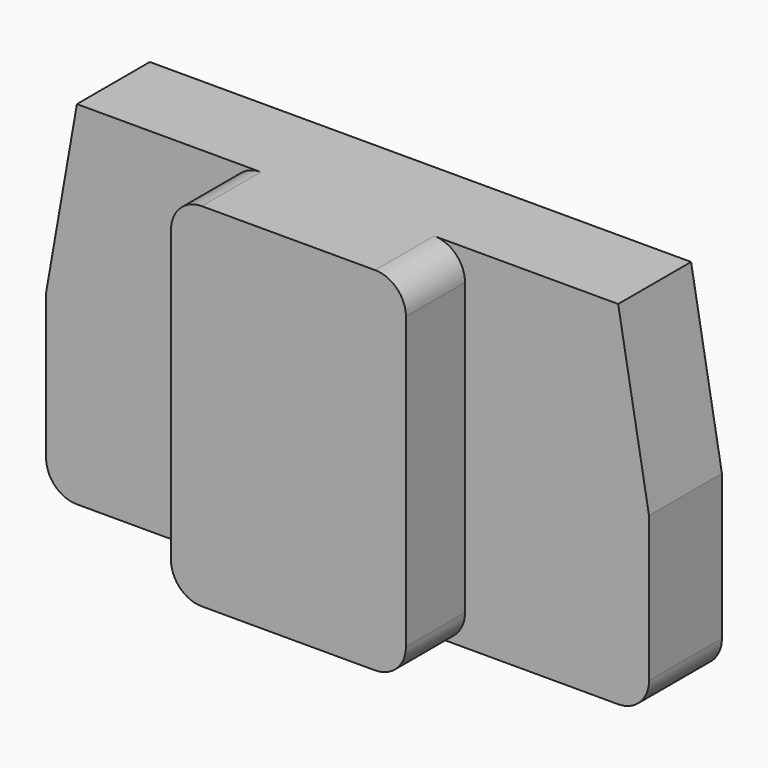
from build123d import *

# Parameters (mm, degrees)
F0_W     = 97.79
F0_H     = 57.15
F1_DEPTH = 14.7828
F2_W     = 38.1
F2_H     = 57.15
F3_DEPTH = 11.97483
F4_R     = 5
F6_DEPTH = 26.75863


with BuildPart() as f1:
    # F0 (on Front) → F1 (new body)
    with BuildSketch(Plane.XZ):
        with Locations((48.895, 28.575)):
            Rectangle(F0_W, F0_H)
    extrude(amount=F1_DEPTH)

    # F2 (on face) → F3 (join)
    with BuildSketch(Plane.XZ.offset(14.7828)):
        with Locations((48.895, 28.575)):
            Rectangle(F2_W, F2_H)
    extrude(amount=F3_DEPTH)

    # F4
    f4_edges = [f1.edges().sort_by_distance(p)[0] for p in [
        (0, -7.3914, 0),
        (29.845, -20.770215, 0),
        (67.945, -20.770215, 0),
        (97.79, -7.3914, 0),
        (97.79, -7.3914, 57.15),
        (67.945, -20.770215, 57.15),
        (29.845, -20.770215, 57.15),
        (0, -7.3914, 57.15),
    ]]
    fillet(f4_edges, radius=F4_R)

    # F5 (on face) → F6 (cut, through all)
    with BuildSketch(Plane(origin=(0, 0, 0), x_dir=(-1, 0, 0), z_dir=(0, 1, 0))):
        Polygon((-97.79, 58.0248906387), (-97.79, 28.575), (-92.79, 57.15), align=None)
        Polygon((-5, 57.15), (0, 28.575), (0, 58.0248906387), align=None)
    extrude(amount=-F6_DEPTH, mode=Mode.SUBTRACT)


solid = f1.part
